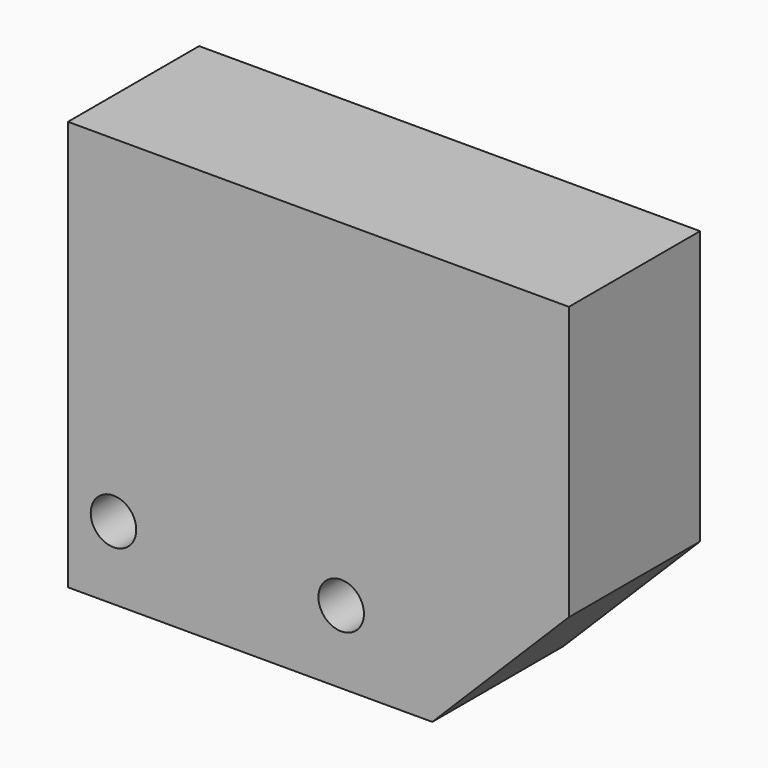
from build123d import *

# Parameters (mm, degrees)
F0_W     = 55
F0_H     = 45
F1_DEPTH = 18
F3_SIZE  = 15
F4_D     = 5


with BuildPart() as f1:
    # F0 (on Front) → F1 (new body)
    with BuildSketch(Plane.XZ):
        with Locations((27.5, 22.5)):
            Rectangle(F0_W, F0_H)
    extrude(amount=F1_DEPTH)

    # F3
    f3_edges = [f1.edges().sort_by_distance(p)[0] for p in [
        (55, -9, 0),
    ]]
    chamfer(f3_edges, length=F3_SIZE)

    # F4 (through all)
    with Locations(Plane.XZ.offset(18)):
        with Locations((30, 8), (5, 8)):
            Hole(F4_D / 2)


solid = f1.part
